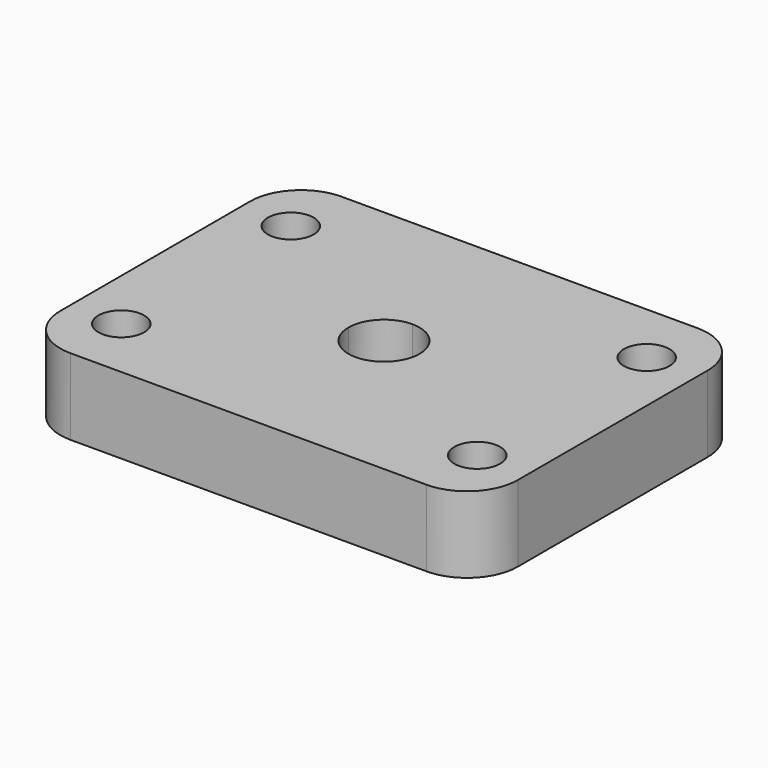
from build123d import *

# Parameters (mm, degrees)
SKETCH_R             = 2.7
PAD_DEPTH            = 9
SKETCH_MIRRORED_2_R  = 2.7
PAD_MIRRORED_2_DEPTH = 9
POCKET_DEPTH         = 3


with BuildPart() as part:
    # Sketch → Pad (new body)
    with BuildSketch(Plane.XY):
        with BuildLine():
            ThreePointArc((0, -4.2), (2.969848, -2.969848), (4.2, 0))
            Line((4.2, 0), (27, 0))
            Line((27, 0), (27, -14))
            ThreePointArc((21, -20), (25.242641, -18.242641), (27, -14))
            Line((21, -20), (0, -20))
            Line((0, -20), (0, -4.2))
        make_face()
        with Locations((21, -12.5)):
            Circle(SKETCH_R, mode=Mode.SUBTRACT)
    pad = extrude(amount=PAD_DEPTH)

    # Sketch Mirrored 2 → Pad Mirrored 2 (add)
    with BuildSketch(Plane(origin=(0, 0, 0), x_dir=(-1, 0, 0), z_dir=(0, 0, -1))):
        with BuildLine():
            ThreePointArc((0, -4.2), (2.969848, -2.969848), (4.2, 0))
            Line((4.2, 0), (27, 0))
            Line((27, 0), (27, -14))
            ThreePointArc((21, -20), (25.242641, -18.242641), (27, -14))
            Line((21, -20), (0, -20))
            Line((0, -20), (0, -4.2))
        make_face()
        with Locations((21, -12.5)):
            Circle(SKETCH_MIRRORED_2_R, mode=Mode.SUBTRACT)
    pad_mirrored_2 = extrude(amount=-PAD_MIRRORED_2_DEPTH)

    # Mirrored001: Pad, Pad Mirrored 2 across Sketch H_Axis
    add(pad.mirror(Plane.ZX))
    add(pad_mirrored_2.mirror(Plane.ZX))

    # Sketch001 → Pocket (cut)
    with BuildSketch(Plane.XY):
        Polygon((6.5, 3.752777), (0, 7.505553), (-6.5, 3.752777), (-6.5, -3.752777), (0, -7.505553), (6.5, -3.752777), align=None)
    extrude(amount=POCKET_DEPTH, mode=Mode.SUBTRACT)


solid = part.part
